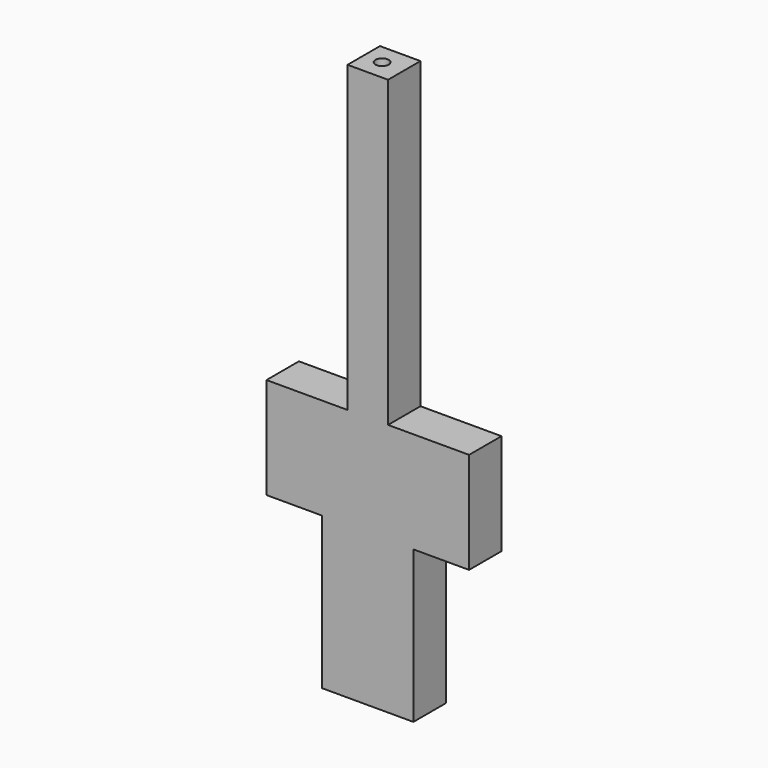
from build123d import *

# Parameters (mm, degrees)
F1_DEPTH = 4
F2_R     = 0.65
F3_DEPTH = 7


with BuildPart() as f1:
    # F0 (on Front) → F1 (new body)
    with BuildSketch(Plane.XZ):
        Polygon((10.186801, -3.773554), (10.186801, 6.226446), (2.186801, 6.226446), (2.186801, 36.226446), (-1.813199, 36.226446), (-1.813199, 6.226446), (-9.813199, 6.226446), (-9.813199, -3.773554), (-4.313199, -3.773554), (-4.313199, -18.773554), (4.686801, -18.773554), (4.686801, -3.773554), align=None)
    extrude(amount=F1_DEPTH)

    # F2 (on face) → F3 (cut)
    with BuildSketch(Plane.XY.offset(36.226446)):
        with Locations((0, -2)):
            Circle(F2_R)
    extrude(amount=-F3_DEPTH, mode=Mode.SUBTRACT)


solid = f1.part
